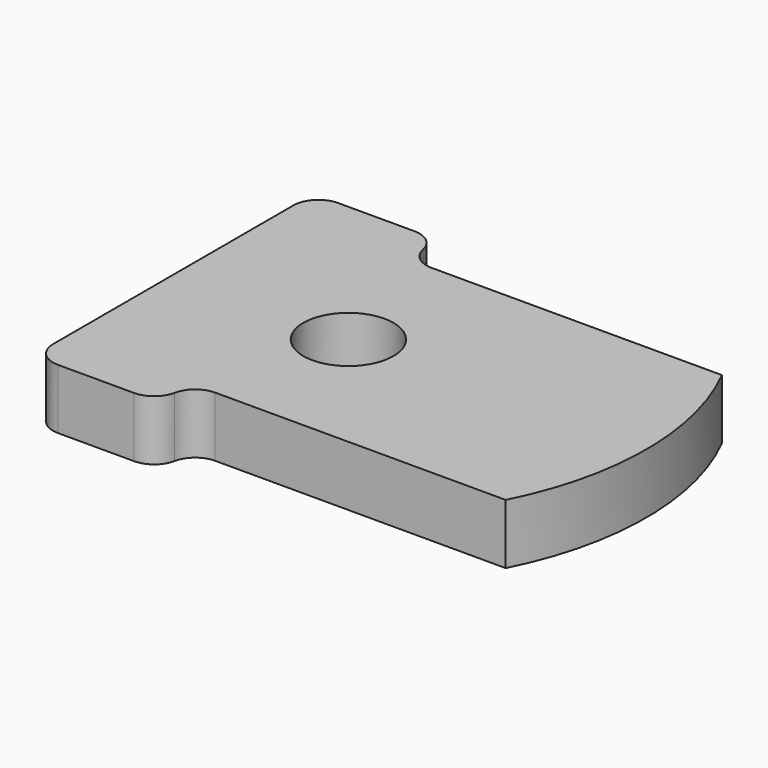
from build123d import *

# Parameters (mm, degrees)
F0_R     = 9
F1_DEPTH = 12
F2_R     = 5
F3_R     = 5
F4_R     = 5
F5_R     = 5
F6_R     = 5


with BuildPart() as f1:
    # F0 (on Top) → F1 (new body)
    with BuildSketch(Plane.XY):
        with BuildLine():
            Line((-10, 35), (-35, 35))
            Line((-35, 35), (-35, -35))
            Line((-35, -35), (-10, -35))
            Line((-10, -35), (-10, -27))
            Line((-10, -27), (53.02122, -27))
            ThreePointArc((53.02122, -27), (59.499998, 0), (53.02122, 27))
            Line((53.02122, 27), (-10, 27))
            Line((-10, 27), (-10, 35))
        make_face()
        Circle(F0_R, mode=Mode.SUBTRACT)
    extrude(amount=F1_DEPTH)

    # F2
    f2_edges = [f1.edges().sort_by_distance(p)[0] for p in [
        (-10, -27, 6),
    ]]
    fillet(f2_edges, radius=F2_R)

    # F3
    f3_edges = [f1.edges().sort_by_distance(p)[0] for p in [
        (-10, 27, 6),
    ]]
    fillet(f3_edges, radius=F3_R)

    # F4
    f4_edges = [f1.edges().sort_by_distance(p)[0] for p in [
        (-10, -35, 6),
    ]]
    fillet(f4_edges, radius=F4_R)

    # F5
    f5_edges = [f1.edges().sort_by_distance(p)[0] for p in [
        (-10, 35, 6),
    ]]
    fillet(f5_edges, radius=F5_R)

    # F6
    f6_edges = [f1.edges().sort_by_distance(p)[0] for p in [
        (-35, -35, 6),
        (-35, 35, 6),
    ]]
    fillet(f6_edges, radius=F6_R)


solid = f1.part
